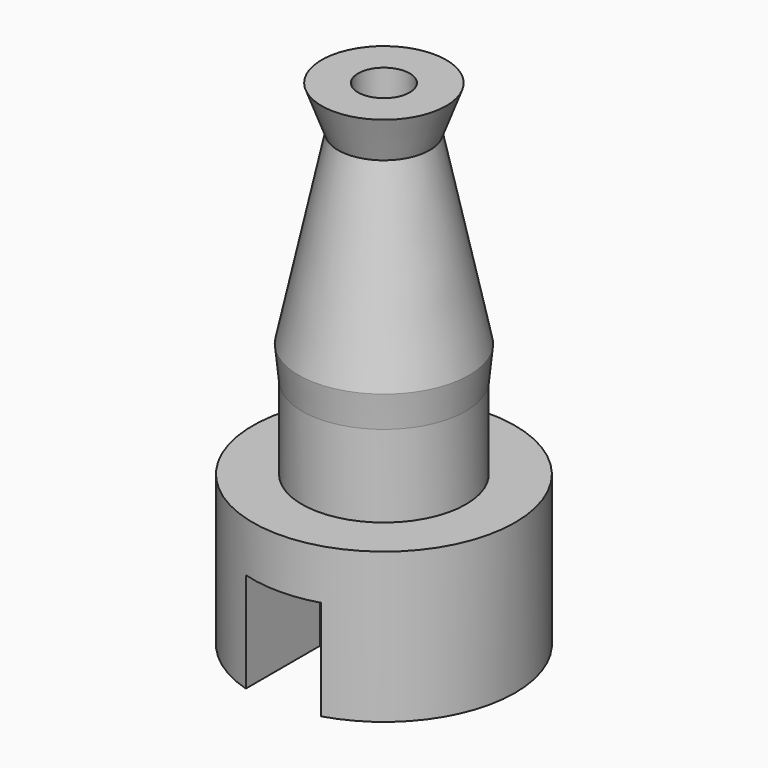
from build123d import *

# Parameters (mm, degrees)
SKETCH001_R          = 1.524
POCKET_DEPTH         = 4.064
SKETCH002_R          = 0.7874
POCKET001_DEPTH      = 15.073
SKETCH003_W          = 2.286
SKETCH003_H          = 5.08
POCKET002_DEPTH      = 5.0038
POCKET002_DEPTH_BACK = -99.9998


with BuildPart() as part:
    # Sketch → Revolution (revolve)
    with BuildSketch(Plane.XZ):
        Polygon((2.5, 0), (4, 0), (4, -4.572), (0, -4.572), (0, 0), (0, 10.5), (1.9, 10.5), (1.4, 9.15), (2.6, 3.5), (2.5, 2.5), align=None)
    revolve(axis=Axis((0, 0, 0), (0, 0, 1)))

    # Sketch001 (on Face5 of Revolution) → Pocket (cut)
    with BuildSketch(Plane(origin=(0, 0, -4.572), x_dir=(1, 0, 0), z_dir=(0, 0, -1))):
        Circle(SKETCH001_R)
    extrude(amount=-POCKET_DEPTH, mode=Mode.SUBTRACT)

    # Sketch002 (on Face6 of Pocket) → Pocket001 (cut, through all)
    with BuildSketch(Plane(origin=(0, 0, 10.5), x_dir=(-1, 0, 0), z_dir=(0, 0, 1))):
        Circle(SKETCH002_R)
    extrude(amount=-POCKET001_DEPTH, mode=Mode.SUBTRACT)

    # Sketch003 → Pocket002 (cut, two sides)
    with BuildSketch(Plane.XZ) as pocket002_sk:
        with Locations((0, -4.064)):
            Rectangle(SKETCH003_W, SKETCH003_H)
    extrude(amount=-POCKET002_DEPTH, mode=Mode.SUBTRACT)
    extrude(pocket002_sk.sketch, amount=-POCKET002_DEPTH_BACK, mode=Mode.SUBTRACT)


solid = part.part
